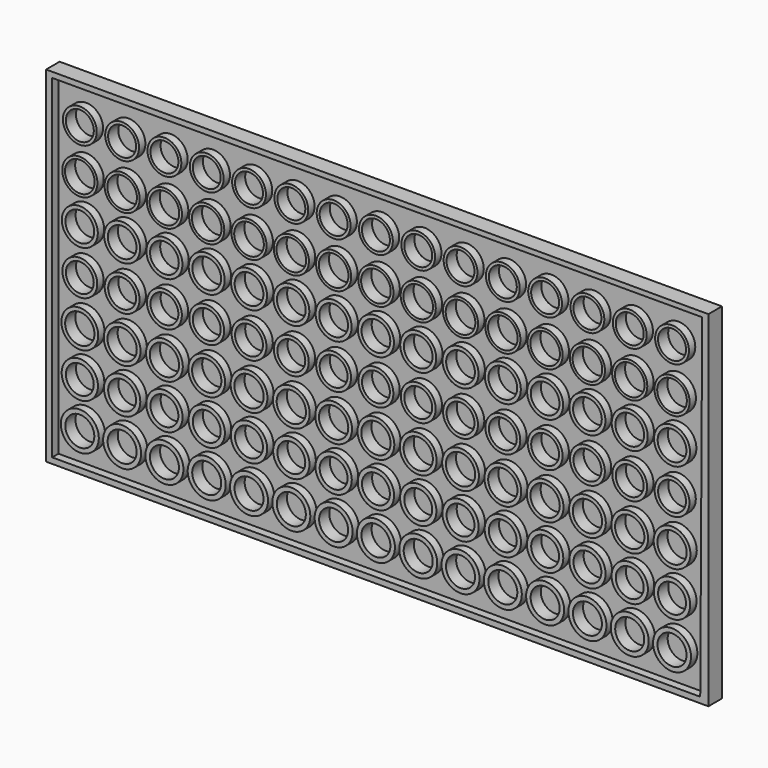
from build123d import *

# Parameters (mm, degrees)
F0_W     = 125.271899
F0_H     = 65.304971
F1_DEPTH = 3.2
F0_R     = 3.59471
F0_R_2   = 3.436603
F0_R_3   = 3.480029
F0_R_4   = 3.299039
F0_R_5   = 3.407078
F0_R_6   = 3.323102
F0_R_7   = 3.198594
F2_DEPTH = 1.7
F0_R_8   = 2.638961
F0_R_9   = 2.744004
F0_R_10  = 2.770788
F0_R_11  = 2.638189
F0_R_12  = 2.718133
F0_R_13  = 2.804572
F0_R_14  = 2.646685
F3_DEPTH = 3.2
F4_DEPTH = 0.8


with BuildPart() as f1:
    # F0 (on Front) → F1 (new body)
    with BuildSketch(Plane.XZ):
        with Locations((0.367902, 11.610514)):
            Rectangle(F0_W, F0_H)
        Polygon((-61.118325, -19.951216), (-61.118325, 43.236136), (61.82919, 43.364532), (61.461702, -19.951216), align=None, mode=Mode.SUBTRACT)
    extrude(amount=F1_DEPTH)

    # F0 (on Front) → F2 (join)
    with BuildSketch(Plane.XZ):
        Polygon((61.82919, 43.364532), (-61.118325, 43.236136), (-61.118325, -19.951216), (61.461702, -19.951216), align=None)
        with Locations((-55.887409, -13.866016)):
            Circle(F0_R, mode=Mode.SUBTRACT)
        with Locations((-47.886409, -13.866016)):
            Circle(F0_R, mode=Mode.SUBTRACT)
        with Locations((-39.885409, -13.866016)):
            Circle(F0_R, mode=Mode.SUBTRACT)
        with Locations((-31.884409, -13.866016)):
            Circle(F0_R, mode=Mode.SUBTRACT)
        with Locations((-55.887409, -5.277802)):
            Circle(F0_R_2, mode=Mode.SUBTRACT)
        with Locations((-47.886409, -5.277802)):
            Circle(F0_R_2, mode=Mode.SUBTRACT)
        with Locations((-39.885409, -5.277802)):
            Circle(F0_R_2, mode=Mode.SUBTRACT)
        with Locations((-31.884409, -5.277802)):
            Circle(F0_R_2, mode=Mode.SUBTRACT)
        with Locations((-23.883409, -13.866016)):
            Circle(F0_R, mode=Mode.SUBTRACT)
        with Locations((-15.882409, -13.866016)):
            Circle(F0_R, mode=Mode.SUBTRACT)
        with Locations((-7.881409, -13.866016)):
            Circle(F0_R, mode=Mode.SUBTRACT)
        with Locations((0.119591, -13.866016)):
            Circle(F0_R, mode=Mode.SUBTRACT)
        with Locations((-23.883409, -5.277802)):
            Circle(F0_R_2, mode=Mode.SUBTRACT)
        with Locations((-15.882409, -5.277802)):
            Circle(F0_R_2, mode=Mode.SUBTRACT)
        with Locations((-7.881409, -5.277802)):
            Circle(F0_R_2, mode=Mode.SUBTRACT)
        with Locations((0.119591, -5.277802)):
            Circle(F0_R_2, mode=Mode.SUBTRACT)
        with Locations((-55.887409, 3.187562)):
            Circle(F0_R_3, mode=Mode.SUBTRACT)
        with Locations((-47.886409, 3.187562)):
            Circle(F0_R_3, mode=Mode.SUBTRACT)
        with Locations((-39.885409, 3.187562)):
            Circle(F0_R_3, mode=Mode.SUBTRACT)
        with Locations((-31.884409, 3.187562)):
            Circle(F0_R_3, mode=Mode.SUBTRACT)
        with Locations((-23.883409, 3.187562)):
            Circle(F0_R_3, mode=Mode.SUBTRACT)
        with Locations((-15.882409, 3.187562)):
            Circle(F0_R_3, mode=Mode.SUBTRACT)
        with Locations((-7.881409, 3.187562)):
            Circle(F0_R_3, mode=Mode.SUBTRACT)
        with Locations((0.119591, 3.187562)):
            Circle(F0_R_3, mode=Mode.SUBTRACT)
        with Locations((8.120591, -13.866016)):
            Circle(F0_R, mode=Mode.SUBTRACT)
        with Locations((16.121591, -13.866016)):
            Circle(F0_R, mode=Mode.SUBTRACT)
        with Locations((24.122591, -13.866016)):
            Circle(F0_R, mode=Mode.SUBTRACT)
        with Locations((8.120591, -5.277802)):
            Circle(F0_R_2, mode=Mode.SUBTRACT)
        with Locations((16.121591, -5.277802)):
            Circle(F0_R_2, mode=Mode.SUBTRACT)
        with Locations((24.122591, -5.277802)):
            Circle(F0_R_2, mode=Mode.SUBTRACT)
        with Locations((32.123591, -13.866016)):
            Circle(F0_R, mode=Mode.SUBTRACT)
        with Locations((40.124591, -13.866016)):
            Circle(F0_R, mode=Mode.SUBTRACT)
        with Locations((48.125591, -13.866016)):
            Circle(F0_R, mode=Mode.SUBTRACT)
        with Locations((56.126591, -13.866016)):
            Circle(F0_R, mode=Mode.SUBTRACT)
        with Locations((32.123591, -5.277802)):
            Circle(F0_R_2, mode=Mode.SUBTRACT)
        with Locations((40.124591, -5.277802)):
            Circle(F0_R_2, mode=Mode.SUBTRACT)
        with Locations((48.125591, -5.277802)):
            Circle(F0_R_2, mode=Mode.SUBTRACT)
        with Locations((56.126591, -5.277802)):
            Circle(F0_R_2, mode=Mode.SUBTRACT)
        with Locations((8.120591, 3.187562)):
            Circle(F0_R_3, mode=Mode.SUBTRACT)
        with Locations((16.121591, 3.187562)):
            Circle(F0_R_3, mode=Mode.SUBTRACT)
        with Locations((24.122591, 3.187562)):
            Circle(F0_R_3, mode=Mode.SUBTRACT)
        with Locations((32.123591, 3.187562)):
            Circle(F0_R_3, mode=Mode.SUBTRACT)
        with Locations((40.124591, 3.187562)):
            Circle(F0_R_3, mode=Mode.SUBTRACT)
        with Locations((48.125591, 3.187562)):
            Circle(F0_R_3, mode=Mode.SUBTRACT)
        with Locations((56.126591, 3.187562)):
            Circle(F0_R_3, mode=Mode.SUBTRACT)
        with Locations((-55.887409, 11.693697)):
            Circle(F0_R_4, mode=Mode.SUBTRACT)
        with Locations((-47.886409, 11.693697)):
            Circle(F0_R_4, mode=Mode.SUBTRACT)
        with Locations((-39.885409, 11.693697)):
            Circle(F0_R_4, mode=Mode.SUBTRACT)
        with Locations((-31.884409, 11.693697)):
            Circle(F0_R_4, mode=Mode.SUBTRACT)
        with Locations((-55.887409, 20.187221)):
            Circle(F0_R_5, mode=Mode.SUBTRACT)
        with Locations((-47.886409, 20.187221)):
            Circle(F0_R_5, mode=Mode.SUBTRACT)
        with Locations((-39.885409, 20.187221)):
            Circle(F0_R_5, mode=Mode.SUBTRACT)
        with Locations((-31.884409, 20.187221)):
            Circle(F0_R_5, mode=Mode.SUBTRACT)
        with Locations((-23.883409, 11.693697)):
            Circle(F0_R_4, mode=Mode.SUBTRACT)
        with Locations((-15.882409, 11.693697)):
            Circle(F0_R_4, mode=Mode.SUBTRACT)
        with Locations((-7.881409, 11.693697)):
            Circle(F0_R_4, mode=Mode.SUBTRACT)
        with Locations((0.119591, 11.693697)):
            Circle(F0_R_4, mode=Mode.SUBTRACT)
        with Locations((-23.883409, 20.187221)):
            Circle(F0_R_5, mode=Mode.SUBTRACT)
        with Locations((-15.882409, 20.187221)):
            Circle(F0_R_5, mode=Mode.SUBTRACT)
        with Locations((-7.881409, 20.187221)):
            Circle(F0_R_5, mode=Mode.SUBTRACT)
        with Locations((0.119591, 20.187221)):
            Circle(F0_R_5, mode=Mode.SUBTRACT)
        with Locations((-55.887409, 28.498519)):
            Circle(F0_R_6, mode=Mode.SUBTRACT)
        with Locations((-47.886409, 28.498519)):
            Circle(F0_R_6, mode=Mode.SUBTRACT)
        with Locations((-39.885409, 28.498519)):
            Circle(F0_R_6, mode=Mode.SUBTRACT)
        with Locations((-31.884409, 28.498519)):
            Circle(F0_R_6, mode=Mode.SUBTRACT)
        with Locations((-55.887409, 36.994204)):
            Circle(F0_R_7, mode=Mode.SUBTRACT)
        with Locations((-47.886409, 36.994204)):
            Circle(F0_R_7, mode=Mode.SUBTRACT)
        with Locations((-39.885409, 36.994204)):
            Circle(F0_R_7, mode=Mode.SUBTRACT)
        with Locations((-31.884409, 36.994204)):
            Circle(F0_R_7, mode=Mode.SUBTRACT)
        with Locations((-23.883409, 28.498519)):
            Circle(F0_R_6, mode=Mode.SUBTRACT)
        with Locations((-15.882409, 28.498519)):
            Circle(F0_R_6, mode=Mode.SUBTRACT)
        with Locations((-7.881409, 28.498519)):
            Circle(F0_R_6, mode=Mode.SUBTRACT)
        with Locations((0.119591, 28.498519)):
            Circle(F0_R_6, mode=Mode.SUBTRACT)
        with Locations((-23.883409, 36.994204)):
            Circle(F0_R_7, mode=Mode.SUBTRACT)
        with Locations((-15.882409, 36.994204)):
            Circle(F0_R_7, mode=Mode.SUBTRACT)
        with Locations((-7.881409, 36.994204)):
            Circle(F0_R_7, mode=Mode.SUBTRACT)
        with Locations((0.119591, 36.994204)):
            Circle(F0_R_7, mode=Mode.SUBTRACT)
        with Locations((8.120591, 11.693697)):
            Circle(F0_R_4, mode=Mode.SUBTRACT)
        with Locations((16.121591, 11.693697)):
            Circle(F0_R_4, mode=Mode.SUBTRACT)
        with Locations((24.122591, 11.693697)):
            Circle(F0_R_4, mode=Mode.SUBTRACT)
        with Locations((8.120591, 20.187221)):
            Circle(F0_R_5, mode=Mode.SUBTRACT)
        with Locations((16.121591, 20.187221)):
            Circle(F0_R_5, mode=Mode.SUBTRACT)
        with Locations((24.122591, 20.187221)):
            Circle(F0_R_5, mode=Mode.SUBTRACT)
        with Locations((32.123591, 11.693697)):
            Circle(F0_R_4, mode=Mode.SUBTRACT)
        with Locations((40.124591, 11.693697)):
            Circle(F0_R_4, mode=Mode.SUBTRACT)
        with Locations((48.125591, 11.693697)):
            Circle(F0_R_4, mode=Mode.SUBTRACT)
        with Locations((56.126591, 11.693697)):
            Circle(F0_R_4, mode=Mode.SUBTRACT)
        with Locations((32.123591, 20.187221)):
            Circle(F0_R_5, mode=Mode.SUBTRACT)
        with Locations((40.124591, 20.187221)):
            Circle(F0_R_5, mode=Mode.SUBTRACT)
        with Locations((48.125591, 20.187221)):
            Circle(F0_R_5, mode=Mode.SUBTRACT)
        with Locations((56.126591, 20.187221)):
            Circle(F0_R_5, mode=Mode.SUBTRACT)
        with Locations((8.120591, 28.498519)):
            Circle(F0_R_6, mode=Mode.SUBTRACT)
        with Locations((16.121591, 28.498519)):
            Circle(F0_R_6, mode=Mode.SUBTRACT)
        with Locations((24.122591, 28.498519)):
            Circle(F0_R_6, mode=Mode.SUBTRACT)
        with Locations((8.120591, 36.994204)):
            Circle(F0_R_7, mode=Mode.SUBTRACT)
        with Locations((16.121591, 36.994204)):
            Circle(F0_R_7, mode=Mode.SUBTRACT)
        with Locations((24.122591, 36.994204)):
            Circle(F0_R_7, mode=Mode.SUBTRACT)
        with Locations((32.123591, 28.498519)):
            Circle(F0_R_6, mode=Mode.SUBTRACT)
        with Locations((40.124591, 28.498519)):
            Circle(F0_R_6, mode=Mode.SUBTRACT)
        with Locations((48.125591, 28.498519)):
            Circle(F0_R_6, mode=Mode.SUBTRACT)
        with Locations((56.126591, 28.498519)):
            Circle(F0_R_6, mode=Mode.SUBTRACT)
        with Locations((32.123591, 36.994204)):
            Circle(F0_R_7, mode=Mode.SUBTRACT)
        with Locations((40.124591, 36.994204)):
            Circle(F0_R_7, mode=Mode.SUBTRACT)
        with Locations((48.125591, 36.994204)):
            Circle(F0_R_7, mode=Mode.SUBTRACT)
        with Locations((56.126591, 36.994204)):
            Circle(F0_R_7, mode=Mode.SUBTRACT)
    extrude(amount=F2_DEPTH)

    # F0 (on Front) → F3 (join)
    with BuildSketch(Plane.XZ):
        with Locations((0.367902, 11.610514)):
            Rectangle(F0_W, F0_H)
        Polygon((-61.118325, -19.951216), (-61.118325, 43.236136), (61.82919, 43.364532), (61.461702, -19.951216), align=None, mode=Mode.SUBTRACT)
        with Locations((-55.887409, -5.277802)):
            Circle(F0_R_2)
        with Locations((-55.887409, -5.277802)):
            Circle(F0_R_8, mode=Mode.SUBTRACT)
        with Locations((-55.887409, -13.866016)):
            Circle(F0_R)
        with Locations((-55.887409, -13.866016)):
            Circle(F0_R_9, mode=Mode.SUBTRACT)
        with Locations((-47.886409, -5.277802)):
            Circle(F0_R_2)
        with Locations((-47.886409, -5.277802)):
            Circle(F0_R_8, mode=Mode.SUBTRACT)
        with Locations((-47.886409, 3.187562)):
            Circle(F0_R_3)
        with Locations((-47.886409, 3.187562)):
            Circle(F0_R_10, mode=Mode.SUBTRACT)
        with Locations((-55.887409, 3.187562)):
            Circle(F0_R_3)
        with Locations((-55.887409, 3.187562)):
            Circle(F0_R_10, mode=Mode.SUBTRACT)
        with Locations((-47.886409, -13.866016)):
            Circle(F0_R)
        with Locations((-47.886409, -13.866016)):
            Circle(F0_R_9, mode=Mode.SUBTRACT)
        with Locations((-39.885409, -13.866016)):
            Circle(F0_R)
        with Locations((-39.885409, -13.866016)):
            Circle(F0_R_9, mode=Mode.SUBTRACT)
        with Locations((-39.885409, -5.277802)):
            Circle(F0_R_2)
        with Locations((-39.885409, -5.277802)):
            Circle(F0_R_8, mode=Mode.SUBTRACT)
        with Locations((-39.885409, 3.187562)):
            Circle(F0_R_3)
        with Locations((-39.885409, 3.187562)):
            Circle(F0_R_10, mode=Mode.SUBTRACT)
        with Locations((-39.885409, 11.693697)):
            Circle(F0_R_4)
        with Locations((-39.885409, 11.693697)):
            Circle(F0_R_11, mode=Mode.SUBTRACT)
        with Locations((-47.886409, 11.693697)):
            Circle(F0_R_4)
        with Locations((-47.886409, 11.693697)):
            Circle(F0_R_11, mode=Mode.SUBTRACT)
        with Locations((-55.887409, 11.693697)):
            Circle(F0_R_4)
        with Locations((-55.887409, 11.693697)):
            Circle(F0_R_11, mode=Mode.SUBTRACT)
        with Locations((-55.887409, 20.187221)):
            Circle(F0_R_5)
        with Locations((-55.887409, 20.187221)):
            Circle(F0_R_12, mode=Mode.SUBTRACT)
        with Locations((-47.886409, 20.187221)):
            Circle(F0_R_5)
        with Locations((-47.886409, 20.187221)):
            Circle(F0_R_12, mode=Mode.SUBTRACT)
        with Locations((-47.886409, 28.498519)):
            Circle(F0_R_6)
        with Locations((-47.886409, 28.498519)):
            Circle(F0_R_13, mode=Mode.SUBTRACT)
        with Locations((-55.887409, 28.498519)):
            Circle(F0_R_6)
        with Locations((-55.887409, 28.498519)):
            Circle(F0_R_13, mode=Mode.SUBTRACT)
        with Locations((-39.885409, 20.187221)):
            Circle(F0_R_5)
        with Locations((-39.885409, 20.187221)):
            Circle(F0_R_12, mode=Mode.SUBTRACT)
        with Locations((-39.885409, 28.498519)):
            Circle(F0_R_6)
        with Locations((-39.885409, 28.498519)):
            Circle(F0_R_13, mode=Mode.SUBTRACT)
        with Locations((-31.884409, 20.187221)):
            Circle(F0_R_5)
        with Locations((-31.884409, 20.187221)):
            Circle(F0_R_12, mode=Mode.SUBTRACT)
        with Locations((-31.884409, 11.693697)):
            Circle(F0_R_4)
        with Locations((-31.884409, 11.693697)):
            Circle(F0_R_11, mode=Mode.SUBTRACT)
        with Locations((-55.887409, 36.994204)):
            Circle(F0_R_7)
        with Locations((-55.887409, 36.994204)):
            Circle(F0_R_14, mode=Mode.SUBTRACT)
        with Locations((-47.886409, 36.994204)):
            Circle(F0_R_7)
        with Locations((-47.886409, 36.994204)):
            Circle(F0_R_14, mode=Mode.SUBTRACT)
        with Locations((-39.885409, 36.994204)):
            Circle(F0_R_7)
        with Locations((-39.885409, 36.994204)):
            Circle(F0_R_14, mode=Mode.SUBTRACT)
        with Locations((-31.884409, 28.498519)):
            Circle(F0_R_6)
        with Locations((-31.884409, 28.498519)):
            Circle(F0_R_13, mode=Mode.SUBTRACT)
        with Locations((-31.884409, -13.866016)):
            Circle(F0_R)
        with Locations((-31.884409, -13.866016)):
            Circle(F0_R_9, mode=Mode.SUBTRACT)
        with Locations((-23.883409, -13.866016)):
            Circle(F0_R)
        with Locations((-23.883409, -13.866016)):
            Circle(F0_R_9, mode=Mode.SUBTRACT)
        with Locations((-23.883409, -5.277802)):
            Circle(F0_R_2)
        with Locations((-23.883409, -5.277802)):
            Circle(F0_R_8, mode=Mode.SUBTRACT)
        with Locations((-31.884409, -5.277802)):
            Circle(F0_R_2)
        with Locations((-31.884409, -5.277802)):
            Circle(F0_R_8, mode=Mode.SUBTRACT)
        with Locations((-31.884409, 3.187562)):
            Circle(F0_R_3)
        with Locations((-31.884409, 3.187562)):
            Circle(F0_R_10, mode=Mode.SUBTRACT)
        with Locations((-23.883409, 3.187562)):
            Circle(F0_R_3)
        with Locations((-23.883409, 3.187562)):
            Circle(F0_R_10, mode=Mode.SUBTRACT)
        with Locations((-23.883409, 11.693697)):
            Circle(F0_R_4)
        with Locations((-23.883409, 11.693697)):
            Circle(F0_R_11, mode=Mode.SUBTRACT)
        with Locations((-23.883409, 20.187221)):
            Circle(F0_R_5)
        with Locations((-23.883409, 20.187221)):
            Circle(F0_R_12, mode=Mode.SUBTRACT)
        with Locations((-23.883409, 28.498519)):
            Circle(F0_R_6)
        with Locations((-23.883409, 28.498519)):
            Circle(F0_R_13, mode=Mode.SUBTRACT)
        with Locations((-23.883409, 36.994204)):
            Circle(F0_R_7)
        with Locations((-23.883409, 36.994204)):
            Circle(F0_R_14, mode=Mode.SUBTRACT)
        with Locations((-31.884409, 36.994204)):
            Circle(F0_R_7)
        with Locations((-31.884409, 36.994204)):
            Circle(F0_R_14, mode=Mode.SUBTRACT)
        with Locations((-15.882409, 36.994204)):
            Circle(F0_R_7)
        with Locations((-15.882409, 36.994204)):
            Circle(F0_R_14, mode=Mode.SUBTRACT)
        with Locations((-7.881409, 36.994204)):
            Circle(F0_R_7)
        with Locations((-7.881409, 36.994204)):
            Circle(F0_R_14, mode=Mode.SUBTRACT)
        with Locations((0.119591, 36.994204)):
            Circle(F0_R_7)
        with Locations((0.119591, 36.994204)):
            Circle(F0_R_14, mode=Mode.SUBTRACT)
        with Locations((0.119591, 28.498519)):
            Circle(F0_R_6)
        with Locations((0.119591, 28.498519)):
            Circle(F0_R_13, mode=Mode.SUBTRACT)
        with Locations((-7.881409, 28.498519)):
            Circle(F0_R_6)
        with Locations((-7.881409, 28.498519)):
            Circle(F0_R_13, mode=Mode.SUBTRACT)
        with Locations((-15.882409, 28.498519)):
            Circle(F0_R_6)
        with Locations((-15.882409, 28.498519)):
            Circle(F0_R_13, mode=Mode.SUBTRACT)
        with Locations((-15.882409, 20.187221)):
            Circle(F0_R_5)
        with Locations((-15.882409, 20.187221)):
            Circle(F0_R_12, mode=Mode.SUBTRACT)
        with Locations((-7.881409, 20.187221)):
            Circle(F0_R_5)
        with Locations((-7.881409, 20.187221)):
            Circle(F0_R_12, mode=Mode.SUBTRACT)
        with Locations((0.119591, 20.187221)):
            Circle(F0_R_5)
        with Locations((0.119591, 20.187221)):
            Circle(F0_R_12, mode=Mode.SUBTRACT)
        with Locations((0.119591, 11.693697)):
            Circle(F0_R_4)
        with Locations((0.119591, 11.693697)):
            Circle(F0_R_11, mode=Mode.SUBTRACT)
        with Locations((-7.881409, 11.693697)):
            Circle(F0_R_4)
        with Locations((-7.881409, 11.693697)):
            Circle(F0_R_11, mode=Mode.SUBTRACT)
        with Locations((-15.882409, 11.693697)):
            Circle(F0_R_4)
        with Locations((-15.882409, 11.693697)):
            Circle(F0_R_11, mode=Mode.SUBTRACT)
        with Locations((-15.882409, 3.187562)):
            Circle(F0_R_3)
        with Locations((-15.882409, 3.187562)):
            Circle(F0_R_10, mode=Mode.SUBTRACT)
        with Locations((-7.881409, 3.187562)):
            Circle(F0_R_3)
        with Locations((-7.881409, 3.187562)):
            Circle(F0_R_10, mode=Mode.SUBTRACT)
        with Locations((-15.882409, -5.277802)):
            Circle(F0_R_2)
        with Locations((-15.882409, -5.277802)):
            Circle(F0_R_8, mode=Mode.SUBTRACT)
        with Locations((-7.881409, -5.277802)):
            Circle(F0_R_2)
        with Locations((-7.881409, -5.277802)):
            Circle(F0_R_8, mode=Mode.SUBTRACT)
        with Locations((0.119591, -5.277802)):
            Circle(F0_R_2)
        with Locations((0.119591, -5.277802)):
            Circle(F0_R_8, mode=Mode.SUBTRACT)
        with Locations((0.119591, 3.187562)):
            Circle(F0_R_3)
        with Locations((0.119591, 3.187562)):
            Circle(F0_R_10, mode=Mode.SUBTRACT)
        with Locations((0.119591, -13.866016)):
            Circle(F0_R)
        with Locations((0.119591, -13.866016)):
            Circle(F0_R_9, mode=Mode.SUBTRACT)
        with Locations((-7.881409, -13.866016)):
            Circle(F0_R)
        with Locations((-7.881409, -13.866016)):
            Circle(F0_R_9, mode=Mode.SUBTRACT)
        with Locations((-15.882409, -13.866016)):
            Circle(F0_R)
        with Locations((-15.882409, -13.866016)):
            Circle(F0_R_9, mode=Mode.SUBTRACT)
        with Locations((40.124591, 20.187221)):
            Circle(F0_R_5)
        with Locations((40.124591, 20.187221)):
            Circle(F0_R_12, mode=Mode.SUBTRACT)
        with Locations((40.124591, 28.498519)):
            Circle(F0_R_6)
        with Locations((40.124591, 28.498519)):
            Circle(F0_R_13, mode=Mode.SUBTRACT)
        with Locations((32.123591, 28.498519)):
            Circle(F0_R_6)
        with Locations((32.123591, 28.498519)):
            Circle(F0_R_13, mode=Mode.SUBTRACT)
        with Locations((24.122591, 28.498519)):
            Circle(F0_R_6)
        with Locations((24.122591, 28.498519)):
            Circle(F0_R_13, mode=Mode.SUBTRACT)
        with Locations((24.122591, 20.187221)):
            Circle(F0_R_5)
        with Locations((24.122591, 20.187221)):
            Circle(F0_R_12, mode=Mode.SUBTRACT)
        with Locations((24.122591, 11.693697)):
            Circle(F0_R_4)
        with Locations((24.122591, 11.693697)):
            Circle(F0_R_11, mode=Mode.SUBTRACT)
        with Locations((32.123591, 20.187221)):
            Circle(F0_R_5)
        with Locations((32.123591, 20.187221)):
            Circle(F0_R_12, mode=Mode.SUBTRACT)
        with Locations((32.123591, 11.693697)):
            Circle(F0_R_4)
        with Locations((32.123591, 11.693697)):
            Circle(F0_R_11, mode=Mode.SUBTRACT)
        with Locations((32.123591, 3.187562)):
            Circle(F0_R_3)
        with Locations((32.123591, 3.187562)):
            Circle(F0_R_10, mode=Mode.SUBTRACT)
        with Locations((40.124591, 3.187562)):
            Circle(F0_R_3)
        with Locations((40.124591, 3.187562)):
            Circle(F0_R_10, mode=Mode.SUBTRACT)
        with Locations((48.125591, 3.187562)):
            Circle(F0_R_3)
        with Locations((48.125591, 3.187562)):
            Circle(F0_R_10, mode=Mode.SUBTRACT)
        with Locations((48.125591, 11.693697)):
            Circle(F0_R_4)
        with Locations((48.125591, 11.693697)):
            Circle(F0_R_11, mode=Mode.SUBTRACT)
        with Locations((40.124591, 11.693697)):
            Circle(F0_R_4)
        with Locations((40.124591, 11.693697)):
            Circle(F0_R_11, mode=Mode.SUBTRACT)
        with Locations((48.125591, 20.187221)):
            Circle(F0_R_5)
        with Locations((48.125591, 20.187221)):
            Circle(F0_R_12, mode=Mode.SUBTRACT)
        with Locations((48.125591, 28.498519)):
            Circle(F0_R_6)
        with Locations((48.125591, 28.498519)):
            Circle(F0_R_13, mode=Mode.SUBTRACT)
        with Locations((48.125591, 36.994204)):
            Circle(F0_R_7)
        with Locations((48.125591, 36.994204)):
            Circle(F0_R_14, mode=Mode.SUBTRACT)
        with Locations((40.124591, 36.994204)):
            Circle(F0_R_7)
        with Locations((40.124591, 36.994204)):
            Circle(F0_R_14, mode=Mode.SUBTRACT)
        with Locations((32.123591, 36.994204)):
            Circle(F0_R_7)
        with Locations((32.123591, 36.994204)):
            Circle(F0_R_14, mode=Mode.SUBTRACT)
        with Locations((56.126591, 28.498519)):
            Circle(F0_R_6)
        with Locations((56.126591, 28.498519)):
            Circle(F0_R_13, mode=Mode.SUBTRACT)
        with Locations((56.126591, 3.187562)):
            Circle(F0_R_3)
        with Locations((56.126591, 3.187562)):
            Circle(F0_R_10, mode=Mode.SUBTRACT)
        with Locations((48.125591, -5.277802)):
            Circle(F0_R_2)
        with Locations((48.125591, -5.277802)):
            Circle(F0_R_8, mode=Mode.SUBTRACT)
        with Locations((56.126591, 36.994204)):
            Circle(F0_R_7)
        with Locations((56.126591, 36.994204)):
            Circle(F0_R_14, mode=Mode.SUBTRACT)
        with Locations((24.122591, 36.994204)):
            Circle(F0_R_7)
        with Locations((24.122591, 36.994204)):
            Circle(F0_R_14, mode=Mode.SUBTRACT)
        with Locations((16.121591, 36.994204)):
            Circle(F0_R_7)
        with Locations((16.121591, 36.994204)):
            Circle(F0_R_14, mode=Mode.SUBTRACT)
        with Locations((8.120591, 36.994204)):
            Circle(F0_R_7)
        with Locations((8.120591, 36.994204)):
            Circle(F0_R_14, mode=Mode.SUBTRACT)
        with Locations((8.120591, 28.498519)):
            Circle(F0_R_6)
        with Locations((8.120591, 28.498519)):
            Circle(F0_R_13, mode=Mode.SUBTRACT)
        with Locations((16.121591, 28.498519)):
            Circle(F0_R_6)
        with Locations((16.121591, 28.498519)):
            Circle(F0_R_13, mode=Mode.SUBTRACT)
        with Locations((8.120591, 3.187562)):
            Circle(F0_R_3)
        with Locations((8.120591, 3.187562)):
            Circle(F0_R_10, mode=Mode.SUBTRACT)
        with Locations((16.121591, 3.187562)):
            Circle(F0_R_3)
        with Locations((16.121591, 3.187562)):
            Circle(F0_R_10, mode=Mode.SUBTRACT)
        with Locations((16.121591, 11.693697)):
            Circle(F0_R_4)
        with Locations((16.121591, 11.693697)):
            Circle(F0_R_11, mode=Mode.SUBTRACT)
        with Locations((16.121591, 20.187221)):
            Circle(F0_R_5)
        with Locations((16.121591, 20.187221)):
            Circle(F0_R_12, mode=Mode.SUBTRACT)
        with Locations((8.120591, 20.187221)):
            Circle(F0_R_5)
        with Locations((8.120591, 20.187221)):
            Circle(F0_R_12, mode=Mode.SUBTRACT)
        with Locations((8.120591, 11.693697)):
            Circle(F0_R_4)
        with Locations((8.120591, 11.693697)):
            Circle(F0_R_11, mode=Mode.SUBTRACT)
        with Locations((24.122591, 3.187562)):
            Circle(F0_R_3)
        with Locations((24.122591, 3.187562)):
            Circle(F0_R_10, mode=Mode.SUBTRACT)
        with Locations((24.122591, -13.866016)):
            Circle(F0_R)
        with Locations((24.122591, -13.866016)):
            Circle(F0_R_9, mode=Mode.SUBTRACT)
        with Locations((32.123591, -13.866016)):
            Circle(F0_R)
        with Locations((32.123591, -13.866016)):
            Circle(F0_R_9, mode=Mode.SUBTRACT)
        with Locations((32.123591, -5.277802)):
            Circle(F0_R_2)
        with Locations((32.123591, -5.277802)):
            Circle(F0_R_8, mode=Mode.SUBTRACT)
        with Locations((24.122591, -5.277802)):
            Circle(F0_R_2)
        with Locations((24.122591, -5.277802)):
            Circle(F0_R_8, mode=Mode.SUBTRACT)
        with Locations((16.121591, -5.277802)):
            Circle(F0_R_2)
        with Locations((16.121591, -5.277802)):
            Circle(F0_R_8, mode=Mode.SUBTRACT)
        with Locations((8.120591, -5.277802)):
            Circle(F0_R_2)
        with Locations((8.120591, -5.277802)):
            Circle(F0_R_8, mode=Mode.SUBTRACT)
        with Locations((16.121591, -13.866016)):
            Circle(F0_R)
        with Locations((16.121591, -13.866016)):
            Circle(F0_R_9, mode=Mode.SUBTRACT)
        with Locations((8.120591, -13.866016)):
            Circle(F0_R)
        with Locations((8.120591, -13.866016)):
            Circle(F0_R_9, mode=Mode.SUBTRACT)
        with Locations((40.124591, -13.866016)):
            Circle(F0_R)
        with Locations((40.124591, -13.866016)):
            Circle(F0_R_9, mode=Mode.SUBTRACT)
        with Locations((40.124591, -5.277802)):
            Circle(F0_R_2)
        with Locations((40.124591, -5.277802)):
            Circle(F0_R_8, mode=Mode.SUBTRACT)
        with Locations((48.125591, -13.866016)):
            Circle(F0_R)
        with Locations((48.125591, -13.866016)):
            Circle(F0_R_9, mode=Mode.SUBTRACT)
        with Locations((56.126591, -13.866016)):
            Circle(F0_R)
        with Locations((56.126591, -13.866016)):
            Circle(F0_R_9, mode=Mode.SUBTRACT)
        with Locations((56.126591, -5.277802)):
            Circle(F0_R_2)
        with Locations((56.126591, -5.277802)):
            Circle(F0_R_8, mode=Mode.SUBTRACT)
        with Locations((56.126591, 11.693697)):
            Circle(F0_R_4)
        with Locations((56.126591, 11.693697)):
            Circle(F0_R_11, mode=Mode.SUBTRACT)
        with Locations((56.126591, 20.187221)):
            Circle(F0_R_5)
        with Locations((56.126591, 20.187221)):
            Circle(F0_R_12, mode=Mode.SUBTRACT)
    extrude(amount=F3_DEPTH)

    # F0 (on Front) → F4 (join)
    with BuildSketch(Plane.XZ):
        with Locations((8.120591, 11.693697)):
            Circle(F0_R_11)
        with Locations((8.120591, 20.187221)):
            Circle(F0_R_12)
        with Locations((0.119591, 20.187221)):
            Circle(F0_R_12)
        with Locations((0.119591, 11.693697)):
            Circle(F0_R_11)
        with Locations((0.119591, 3.187562)):
            Circle(F0_R_10)
        with Locations((0.119591, -5.277802)):
            Circle(F0_R_8)
        with Locations((8.120591, 3.187562)):
            Circle(F0_R_10)
        with Locations((8.120591, -5.277802)):
            Circle(F0_R_8)
        with Locations((8.120591, -13.866016)):
            Circle(F0_R_9)
        with Locations((0.119591, -13.866016)):
            Circle(F0_R_9)
        with Locations((-7.881409, -13.866016)):
            Circle(F0_R_9)
        with Locations((-7.881409, -5.277802)):
            Circle(F0_R_8)
        with Locations((-7.881409, 3.187562)):
            Circle(F0_R_10)
        with Locations((-7.881409, 11.693697)):
            Circle(F0_R_11)
        with Locations((-7.881409, 20.187221)):
            Circle(F0_R_12)
        with Locations((-7.881409, 28.498519)):
            Circle(F0_R_13)
        with Locations((0.119591, 28.498519)):
            Circle(F0_R_13)
        with Locations((8.120591, 28.498519)):
            Circle(F0_R_13)
        with Locations((16.121591, 28.498519)):
            Circle(F0_R_13)
        with Locations((16.121591, 20.187221)):
            Circle(F0_R_12)
        with Locations((16.121591, 11.693697)):
            Circle(F0_R_11)
        with Locations((16.121591, 3.187562)):
            Circle(F0_R_10)
        with Locations((16.121591, -5.277802)):
            Circle(F0_R_8)
        with Locations((16.121591, -13.866016)):
            Circle(F0_R_9)
        with Locations((-15.882409, -13.866016)):
            Circle(F0_R_9)
        with Locations((-15.882409, -5.277802)):
            Circle(F0_R_8)
        with Locations((-15.882409, 3.187562)):
            Circle(F0_R_10)
        with Locations((-15.882409, 11.693697)):
            Circle(F0_R_11)
        with Locations((-15.882409, 20.187221)):
            Circle(F0_R_12)
        with Locations((-15.882409, 28.498519)):
            Circle(F0_R_13)
        with Locations((-23.883409, 28.498519)):
            Circle(F0_R_13)
        with Locations((-23.883409, 20.187221)):
            Circle(F0_R_12)
        with Locations((-23.883409, 11.693697)):
            Circle(F0_R_11)
        with Locations((-23.883409, 3.187562)):
            Circle(F0_R_10)
        with Locations((-23.883409, -5.277802)):
            Circle(F0_R_8)
        with Locations((-23.883409, -13.866016)):
            Circle(F0_R_9)
        with Locations((-31.884409, -13.866016)):
            Circle(F0_R_9)
        with Locations((-31.884409, -5.277802)):
            Circle(F0_R_8)
        with Locations((-31.884409, 3.187562)):
            Circle(F0_R_10)
        with Locations((-39.885409, -5.277802)):
            Circle(F0_R_8)
        with Locations((-39.885409, -13.866016)):
            Circle(F0_R_9)
        with Locations((-39.885409, 20.187221)):
            Circle(F0_R_12)
        with Locations((-39.885409, 28.498519)):
            Circle(F0_R_13)
        with Locations((-31.884409, 28.498519)):
            Circle(F0_R_13)
        with Locations((24.122591, -13.866016)):
            Circle(F0_R_9)
        with Locations((24.122591, -5.277802)):
            Circle(F0_R_8)
        with Locations((24.122591, 3.187562)):
            Circle(F0_R_10)
        with Locations((24.122591, 11.693697)):
            Circle(F0_R_11)
        with Locations((24.122591, 20.187221)):
            Circle(F0_R_12)
        with Locations((24.122591, 28.498519)):
            Circle(F0_R_13)
        with Locations((24.122591, 36.994204)):
            Circle(F0_R_14)
        with Locations((32.123591, 36.994204)):
            Circle(F0_R_14)
        with Locations((40.124591, 36.994204)):
            Circle(F0_R_14)
        with Locations((48.125591, 36.994204)):
            Circle(F0_R_14)
        with Locations((56.126591, 36.994204)):
            Circle(F0_R_14)
        with Locations((56.126591, 28.498519)):
            Circle(F0_R_13)
        with Locations((48.125591, 28.498519)):
            Circle(F0_R_13)
        with Locations((40.124591, 28.498519)):
            Circle(F0_R_13)
        with Locations((32.123591, 28.498519)):
            Circle(F0_R_13)
        with Locations((32.123591, 20.187221)):
            Circle(F0_R_12)
        with Locations((40.124591, 20.187221)):
            Circle(F0_R_12)
        with Locations((48.125591, 20.187221)):
            Circle(F0_R_12)
        with Locations((56.126591, 20.187221)):
            Circle(F0_R_12)
        with Locations((56.126591, 11.693697)):
            Circle(F0_R_11)
        with Locations((48.125591, 11.693697)):
            Circle(F0_R_11)
        with Locations((40.124591, 11.693697)):
            Circle(F0_R_11)
        with Locations((32.123591, 11.693697)):
            Circle(F0_R_11)
        with Locations((32.123591, 3.187562)):
            Circle(F0_R_10)
        with Locations((40.124591, 3.187562)):
            Circle(F0_R_10)
        with Locations((48.125591, 3.187562)):
            Circle(F0_R_10)
        with Locations((56.126591, 3.187562)):
            Circle(F0_R_10)
        with Locations((56.126591, -5.277802)):
            Circle(F0_R_8)
        with Locations((48.125591, -5.277802)):
            Circle(F0_R_8)
        with Locations((40.124591, -5.277802)):
            Circle(F0_R_8)
        with Locations((32.123591, -5.277802)):
            Circle(F0_R_8)
        with Locations((32.123591, -13.866016)):
            Circle(F0_R_9)
        with Locations((40.124591, -13.866016)):
            Circle(F0_R_9)
        with Locations((48.125591, -13.866016)):
            Circle(F0_R_9)
        with Locations((56.126591, -13.866016)):
            Circle(F0_R_9)
        with Locations((16.121591, 36.994204)):
            Circle(F0_R_14)
        with Locations((8.120591, 36.994204)):
            Circle(F0_R_14)
        with Locations((0.119591, 36.994204)):
            Circle(F0_R_14)
        with Locations((-7.881409, 36.994204)):
            Circle(F0_R_14)
        with Locations((-15.882409, 36.994204)):
            Circle(F0_R_14)
        with Locations((-23.883409, 36.994204)):
            Circle(F0_R_14)
        with Locations((-31.884409, 36.994204)):
            Circle(F0_R_14)
        with Locations((-39.885409, 36.994204)):
            Circle(F0_R_14)
        with Locations((-47.886409, 36.994204)):
            Circle(F0_R_14)
        with Locations((-55.887409, 36.994204)):
            Circle(F0_R_14)
        with Locations((-55.887409, 28.498519)):
            Circle(F0_R_13)
        with Locations((-47.886409, 28.498519)):
            Circle(F0_R_13)
        with Locations((-47.886409, 20.187221)):
            Circle(F0_R_12)
        with Locations((-55.887409, 20.187221)):
            Circle(F0_R_12)
        with Locations((-55.887409, 11.693697)):
            Circle(F0_R_11)
        with Locations((-47.886409, 11.693697)):
            Circle(F0_R_11)
        with Locations((-39.885409, 11.693697)):
            Circle(F0_R_11)
        with Locations((-31.884409, 11.693697)):
            Circle(F0_R_11)
        with Locations((-31.884409, 20.187221)):
            Circle(F0_R_12)
        with Locations((-39.885409, 3.187562)):
            Circle(F0_R_10)
        with Locations((-47.886409, 3.187562)):
            Circle(F0_R_10)
        with Locations((-55.887409, 3.187562)):
            Circle(F0_R_10)
        with Locations((-55.887409, -5.277802)):
            Circle(F0_R_8)
        with Locations((-47.886409, -5.277802)):
            Circle(F0_R_8)
        with Locations((-47.886409, -13.866016)):
            Circle(F0_R_9)
        with Locations((-55.887409, -13.866016)):
            Circle(F0_R_9)
    extrude(amount=F4_DEPTH)


solid = f1.part
